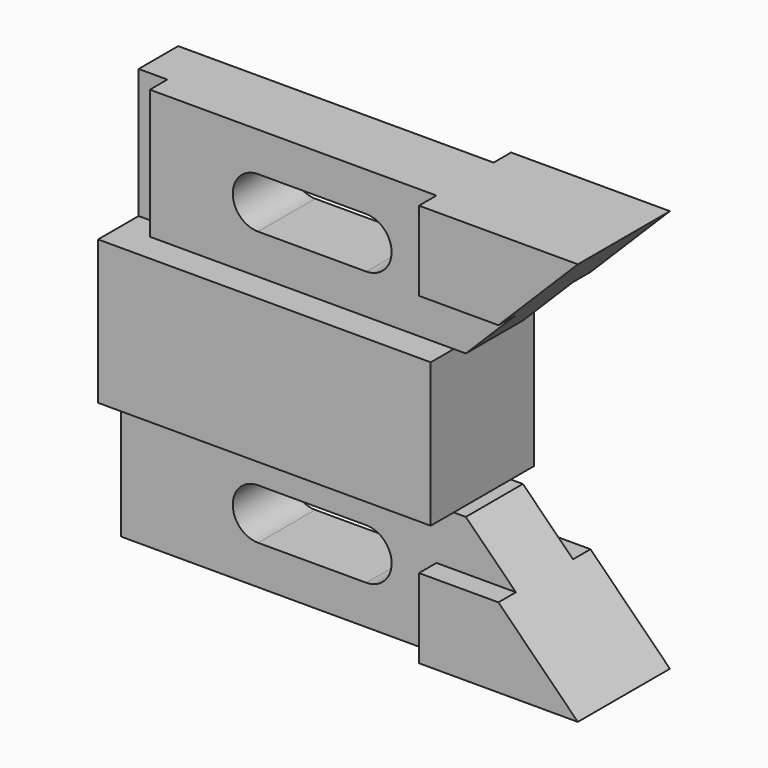
from build123d import *

# Parameters (mm, degrees)
F1_DEPTH  = 104.648
F2_W      = 6.35
F2_H      = 4.826
F3_DEPTH  = 28.575
F5_DEPTH  = 68.58
F7_DEPTH  = 12.7
F11_DEPTH = 39.116
F12_W     = 31.242
F12_H     = 31.75
F13_DEPTH = 67.31


with BuildPart() as f1:
    # F0 (on Right) → F1 (new body)
    with BuildSketch(Plane.YZ):
        Polygon((-14.224, 15.875), (-14.224, 0), (-14.224, -15.875), (-7.874, -15.875), (-7.874, -44.45), (7.874, -44.45), (7.874, -15.875), (14.224, -15.875), (14.224, 0), (14.224, 15.875), (7.874, 15.875), (7.874, 44.45), (-7.874, 44.45), (-7.874, 15.875), align=None)
    extrude(amount=-F1_DEPTH)

    # F2 (on face) → F3 (cut, through all)
    with BuildSketch(Plane.XY.offset(44.45)):
        with Locations((-101.473, -5.461)):
            Rectangle(F2_W, F2_H)
    extrude(amount=-F3_DEPTH, mode=Mode.SUBTRACT)

    # F4 (on Front) → F5 (cut, symmetric)
    with BuildSketch(Plane.XZ):
        with BuildLine():
            Line((-50.546, -24.638), (-74.422, -24.638))
            ThreePointArc((-74.422, -24.638), (-80.01, -30.226), (-74.422, -35.814))
            Line((-74.422, -35.814), (-50.546, -35.814))
            ThreePointArc((-50.546, -35.814), (-44.958, -30.226), (-50.546, -24.638))
        make_face()
        with BuildLine():
            ThreePointArc((-74.422, 35.814), (-80.01, 30.226), (-74.422, 24.638))
            Line((-74.422, 24.638), (-50.546, 24.638))
            ThreePointArc((-50.546, 24.638), (-44.958, 30.226), (-50.546, 35.814))
            Line((-50.546, 35.814), (-74.422, 35.814))
        make_face()
    extrude(amount=F5_DEPTH, both=True, mode=Mode.SUBTRACT)


with BuildPart() as f7:
    # F6 (on Front) → F7 (new body, symmetric)
    with BuildSketch(Plane.XZ):
        Polygon((0, 44.45), (-35.052, 44.45), (-35.052, 26.924), (-17.526, 26.924), align=None)
        Polygon((0, -44.45), (-17.526, -26.924), (-35.052, -26.924), (-35.052, -44.45), align=None)
    extrude(amount=F7_DEPTH, both=True)

    # F8: union F1
    add(f1.part)

    # F10 (on Front) → F11 (cut, symmetric)
    with BuildSketch(Plane.XZ):
        Polygon((0, 44.45), (-17.526, 26.924), (-28.575, 15.875), (0, 15.875), align=None)
        Polygon((-28.575, -15.875), (-17.526, -26.924), (0, -44.45), (0, -15.875), align=None)
    extrude(amount=F11_DEPTH, both=True, mode=Mode.SUBTRACT)

    # F12 (on Front) → F13 (cut, symmetric)
    with BuildSketch(Plane.XZ):
        with Locations((-15.621, 0)):
            Rectangle(F12_W, F12_H)
    extrude(amount=F13_DEPTH, both=True, mode=Mode.SUBTRACT)


solid = f7.part
